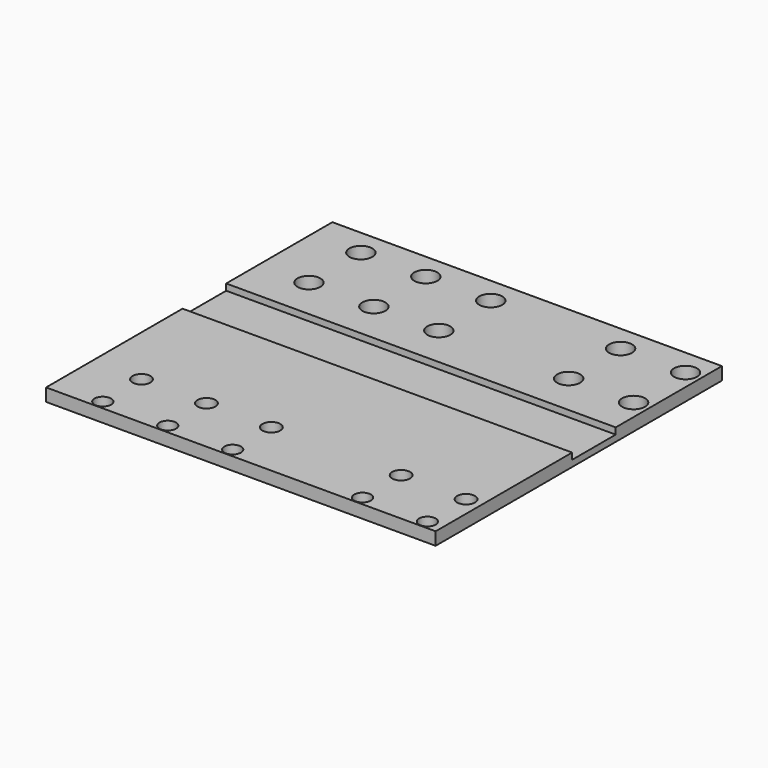
from build123d import *

# Parameters (mm, degrees)
F0_W     = 30.48
F0_H     = 28
F1_DEPTH = 1
F3_W     = 30.48
F3_H     = 4.265539
F4_DEPTH = 0.5
F2_R     = 0.9
F2_R_2   = 0.7
F2_R_3   = 0.65
F5_DEPTH = 2


with BuildPart() as f1:
    # F0 (on Top) → F1 (new body)
    with BuildSketch(Plane.XY):
        Rectangle(F0_W, F0_H)
    extrude(amount=F1_DEPTH)

    # F3 (on face) → F4 (cut)
    with BuildSketch(Plane.XY.offset(1)):
        with Locations((0, 1.480549)):
            Rectangle(F3_W, F3_H)
    extrude(amount=-F4_DEPTH, mode=Mode.SUBTRACT)

    # F2 (on face) → F5 (cut)
    with BuildSketch(Plane.XY.offset(1)):
        with Locations((-11.36, 11.94)):
            Circle(F2_R)
        with Locations((-6.28, 11.94)):
            Circle(F2_R)
        with Locations((-1.2, 11.94)):
            Circle(F2_R)
        with Locations((8.96, 11.94)):
            Circle(F2_R)
        with Locations((14.04, 11.94)):
            Circle(F2_R)
        with Locations((-11.36, 6.86)):
            Circle(F2_R)
        with Locations((-6.28, 6.86)):
            Circle(F2_R)
        with Locations((-1.2, 6.86)):
            Circle(F2_R)
        with Locations((8.96, 6.86)):
            Circle(F2_R)
        with Locations((14.04, 6.86)):
            Circle(F2_R)
        with Locations((-11.36, -9.52)):
            Circle(F2_R_2)
        with Locations((-6.28, -9.52)):
            Circle(F2_R_2)
        with Locations((-1.2, -9.52)):
            Circle(F2_R_2)
        with Locations((8.96, -9.52)):
            Circle(F2_R_2)
        with Locations((14.04, -9.52)):
            Circle(F2_R_2)
        with Locations((-11.36, -13.3)):
            Circle(F2_R_3)
        with Locations((-6.28, -13.3)):
            Circle(F2_R_3)
        with Locations((-1.2, -13.3)):
            Circle(F2_R_3)
        with Locations((8.96, -13.3)):
            Circle(F2_R_3)
        with Locations((14.04, -13.3)):
            Circle(F2_R_3)
    extrude(amount=-F5_DEPTH, mode=Mode.SUBTRACT)


solid = f1.part
